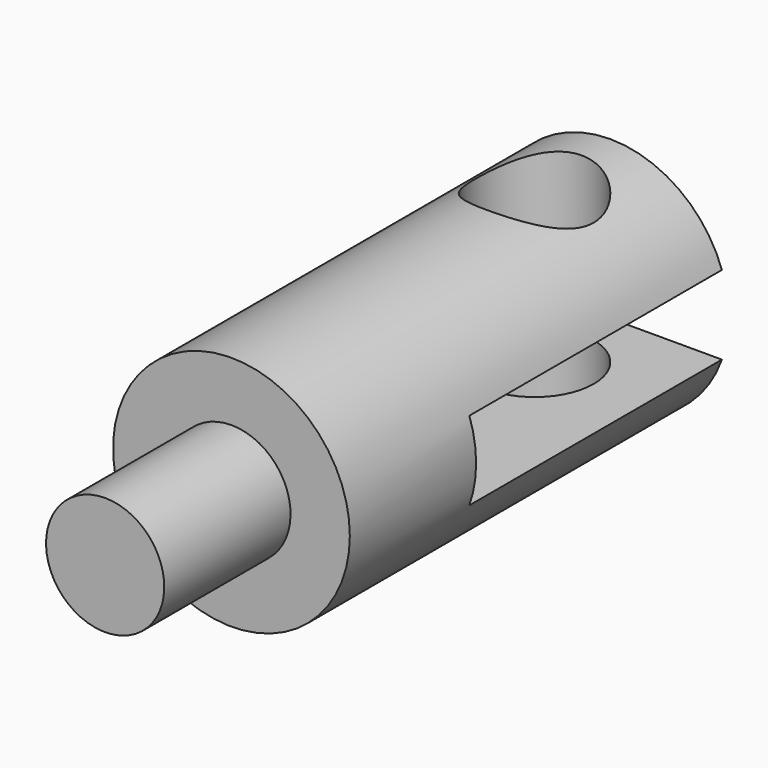
from build123d import *

# Parameters (mm, degrees)
F0_R          = 4.7625
F1_DEPTH      = 25.4
F2_W          = 6.35
F2_H          = 4.7452268491
F5_DEPTH      = 4.7635
F5_DEPTH_BACK = 4.7635
F6_R          = 2.38125
F7_DEPTH      = 12.7


with BuildPart() as f1:
    # F0 (on Front) → F1 (new body)
    with BuildSketch(Plane.XZ):
        Circle(F0_R)
    extrude(amount=F1_DEPTH)

    # F2 (on Right) → F3 (revolve, cut)
    with BuildSketch(Plane.YZ):
        with Locations((-22.225, 4.7500534246)):
            Rectangle(F2_W, F2_H)
    revolve(axis=Axis((0, -25.3480933607, 0), (0, -1, 0)), mode=Mode.SUBTRACT)

    # F4 (on Right) → F5 (cut, two sides)
    with BuildSketch(Plane.YZ) as f5_sk:
        Polygon((0, -1.5875), (0, 0), (0, 1.5875), (-12.7, 1.5875), (-12.7, 0), (-12.7, -1.5875), align=None)
    extrude(amount=-F5_DEPTH, mode=Mode.SUBTRACT)
    extrude(f5_sk.sketch, amount=F5_DEPTH_BACK, mode=Mode.SUBTRACT)

    # F6 (on Top) → F7 (cut, symmetric)
    with BuildSketch(Plane.XY):
        with Locations((0, -3.81)):
            Circle(F6_R)
    extrude(amount=F7_DEPTH, both=True, mode=Mode.SUBTRACT)


solid = f1.part
